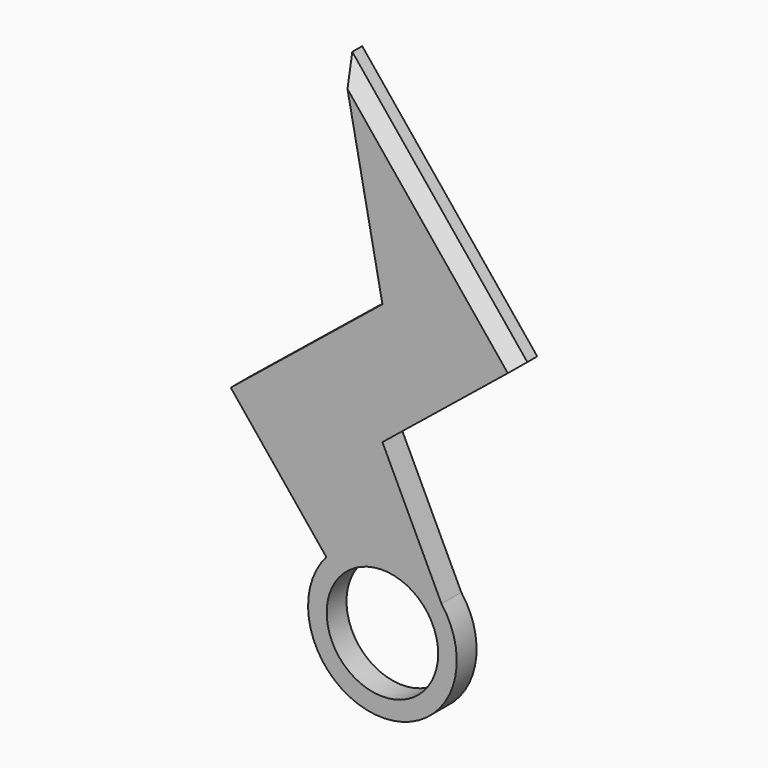
from build123d import *

# Parameters (mm, degrees)
F0_R     = 4.5
F1_DEPTH = 2
F2_SIZE  = 1


with BuildPart() as f1:
    # F0 (on Front) → F1 (new body)
    with BuildSketch(Plane.XZ):
        with BuildLine():
            Line((-12.243141, 13.469889), (-4.527735, 3.936955))
            ThreePointArc((-4.527735, 3.936955), (-0.191932, -5.996929), (4.770216, 3.639373))
            Line((4.770216, 3.639373), (0, 13.578297))
            Line((0, 13.578297), (10.897988, 22.398499))
            Line((10.897988, 22.398499), (-3.232299, 39.857476))
            Line((-3.232299, 39.857476), (0, 23.37878))
            Line((0, 23.37878), (-12.243141, 13.469889))
        make_face()
        Circle(F0_R, mode=Mode.SUBTRACT)
    extrude(amount=F1_DEPTH)

    # F2
    f2_edges = [f1.edges().sort_by_distance(p)[0] for p in [
        (3.832845, -2, 31.127988),
    ]]
    chamfer(f2_edges, length=F2_SIZE)


solid = f1.part
